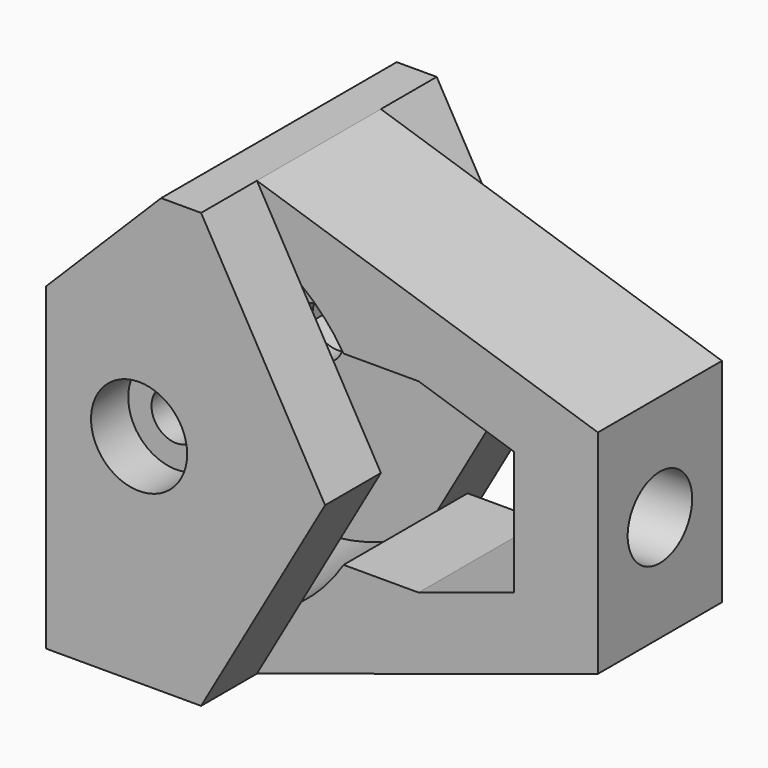
from build123d import *

# Parameters (mm, degrees)
F0_W      = 32
F0_H      = 28
F0_R      = 1.6
F1_DEPTH  = 9.5
F3_DEPTH  = 4.5
F5_DEPTH  = 5
F8_R      = 2.6
F9_DEPTH  = 25
F11_DEPTH = 3
F12_R     = 3.1
F13_DEPTH = 3
F15_DEPTH = 25
F17_DEPTH = 10
F18_W     = 7.420289278
F18_H     = 10
F19_DEPTH = 5
F21_DEPTH = 25
F22_SIZE  = 1


with BuildPart() as f1:
    # F0 (on Front) → F1 (new body)
    with BuildSketch(Plane.XZ):
        Rectangle(F0_W, F0_H)
        with Locations((-10, 0)):
            Circle(F0_R, mode=Mode.SUBTRACT)
    extrude(amount=F1_DEPTH)

    # F2 (on face) → F3 (cut)
    with BuildSketch(Plane.XZ.offset(9.5)):
        Polygon((16, -14), (16, 14), (-6, 14), (2, 0), (-6, -14), align=None)
    extrude(amount=-F3_DEPTH, mode=Mode.SUBTRACT)

    # F4 (on face) → F5 (cut, through all)
    with BuildSketch(Plane.XZ.offset(5)):
        with BuildLine():
            Line((10.5927268367, 6), (-0.4072731633, 6))
            ThreePointArc((-0.4072731633, 6), (-4.516718781, 9.8971730932), (-10, 11.314610385))
            Line((-10, 11.314610385), (-20, 11.314610385))
            Line((-20, 11.314610385), (-20, -11.314610385))
            Line((-20, -11.314610385), (-10, -11.314610385))
            ThreePointArc((-10, -11.314610385), (-4.516718781, -9.8971730932), (-0.4072731633, -6))
            Line((-0.4072731633, -6), (10.5927268367, -6))
            Line((10.5927268367, -6), (10.5927268367, 6))
        make_face()
    extrude(amount=-F5_DEPTH, mode=Mode.SUBTRACT)

    # F7: F1 across plane


with BuildPart() as f1_1:
    add(f1.part)
    add(f1.part.mirror(Plane.XZ))

    # F8 (on face) → F9 (cut)
    with BuildSketch(Plane.YZ.offset(16)):
        Circle(F8_R)
    extrude(amount=-F9_DEPTH, mode=Mode.SUBTRACT)

    # F10 (on face) → F11 (cut)
    with BuildSketch(Plane(origin=(0, 9.5, 0), x_dir=(-1, 0, 0), z_dir=(0, 1, 0))):
        Polygon((10.1159347913, -3.2888537706), (12.9061983103, -1.5440244109), (12.790263519, 1.7448293597), (9.8840652087, 3.2888537706), (7.0938016897, 1.5440244109), (7.209736481, -1.7448293597), align=None)
    extrude(amount=-F11_DEPTH, mode=Mode.SUBTRACT)

    # F12 (on face) → F13 (cut)
    with BuildSketch(Plane.XZ.offset(9.5)):
        with Locations((-10, 0)):
            Circle(F12_R)
    extrude(amount=-F13_DEPTH, mode=Mode.SUBTRACT)

    # F14 (on face) → F15 (cut)
    with BuildSketch(Plane.XZ.offset(5)):
        Polygon((16, 6.8564745598), (16, 14), (-6, 14), align=None)
        Polygon((16, -6.8564745598), (-6, -14), (16, -14), align=None)
    extrude(amount=-F15_DEPTH, mode=Mode.SUBTRACT)

    # F16 (on face) → F17 (join, through all)
    with BuildSketch(Plane.XZ.offset(5)):
        Polygon((10.5927268367, 6), (4.4333031224, 6), (10.5927268367, 4), align=None)
        Polygon((4.4333031224, -6), (10.5927268367, -6), (10.5927268367, -4), align=None)
    extrude(amount=-F17_DEPTH)

    # F18 (on face) → F19 (cut)
    with BuildSketch(Plane.XY.offset(14)):
        with Locations((-12.289855361, 0)):
            Rectangle(F18_W, F18_H)
    extrude(amount=-F19_DEPTH, mode=Mode.SUBTRACT)

    # F20 (on face) → F21 (cut)
    with BuildSketch(Plane.XZ.offset(9.5)):
        Polygon((-16, 6.579710722), (-8.579710722, 14), (-16, 14), align=None)
    extrude(amount=-F21_DEPTH, mode=Mode.SUBTRACT)

    # F22
    f22_edges = [f1_1.edges().sort_by_distance(p)[0] for p in [
        (-8.579711, -5, 12.612557),
        (-8.579711, 5, 12.612557),
    ]]
    chamfer(f22_edges, length=F22_SIZE)


solid = f1_1.part
